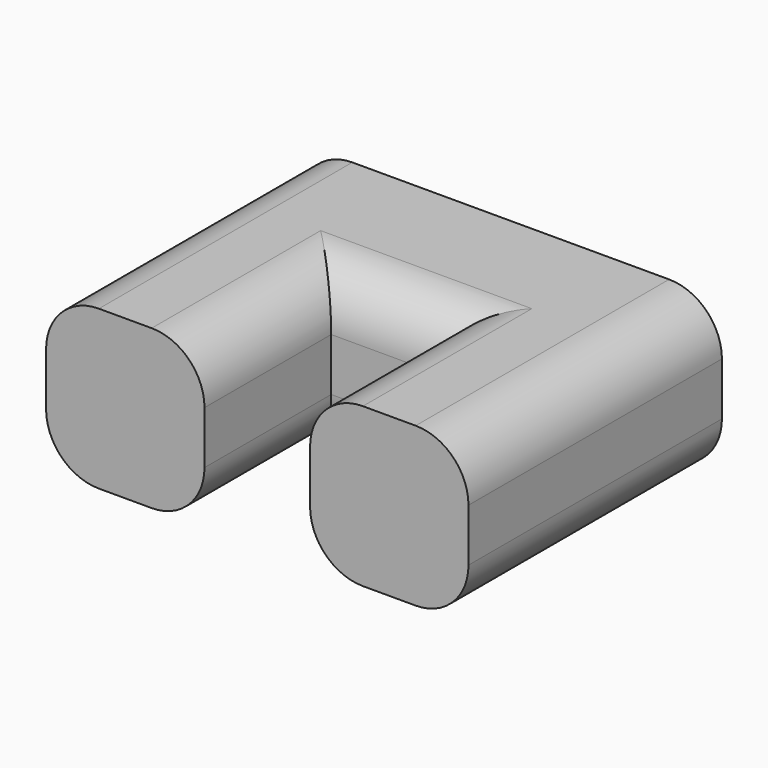
from build123d import *

# Parameters (mm, degrees)
F1_DEPTH = 3
F2_R     = 1


with BuildPart() as f1:
    # F0 (on Top) → F1 (new body)
    with BuildSketch(Plane.XY):
        Polygon((-11.327588, 0), (-8.327588, 0), (-8.327588, 3), (-6.327588, 3), (-6.327588, 0), (-3.327588, 0), (-3.327588, 6), (-11.327588, 6), align=None)
    extrude(amount=F1_DEPTH)

    # F2
    f2_edges = [f1.edges().sort_by_distance(p)[0] for p in [
        (-6.327588, 1.5, 3),
        (-7.327588, 3, 3),
        (-8.327588, 1.5, 3),
        (-7.327588, 3, 0),
        (-8.327588, 1.5, 0),
        (-6.327588, 1.5, 0),
        (-11.327588, 3, 0),
        (-11.327588, 3, 3),
        (-3.327588, 3, 3),
        (-3.327588, 3, 0),
    ]]
    fillet(f2_edges, radius=F2_R)


solid = f1.part
